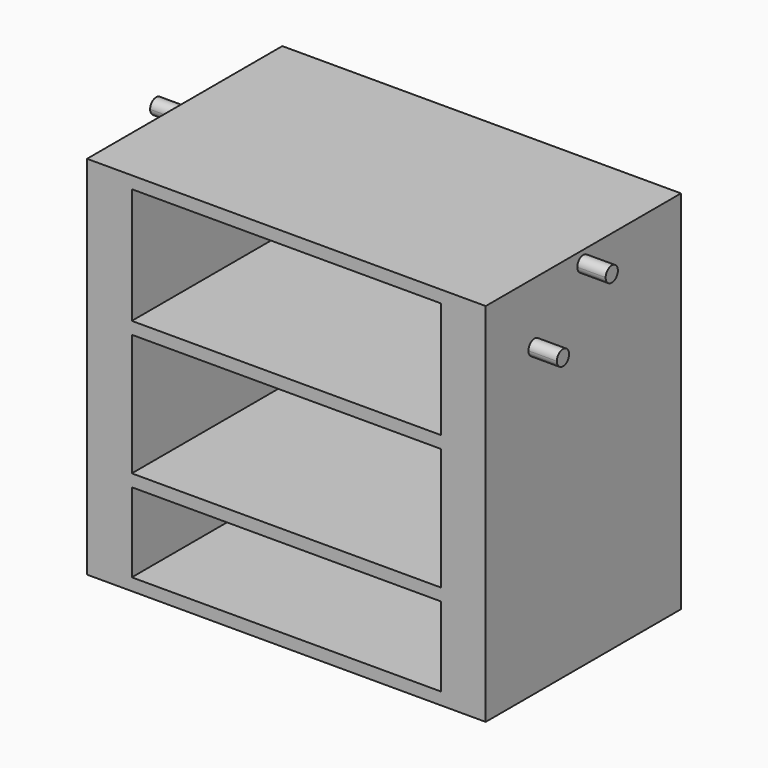
from build123d import *

# Parameters (mm, degrees)
F0_W      = 71.12
F0_H      = 50.8
F1_DEPTH  = 76.2
F3_T      = -2.54
F4_DEPTH  = 50.8
F5_DEPTH  = 50.8
F7_DEPTH  = 12.7
F8_DEPTH  = 12.7
F9_DEPTH  = 12.7
F12_DEPTH = 5.08
F13_DEPTH = 5.08


with BuildPart() as f1:
    # F0 (on Top) → F1 (new body)
    with BuildSketch(Plane.XY):
        with Locations((-1.6881457889, -10.255297339)):
            Rectangle(F0_W, F0_H)
    extrude(amount=F1_DEPTH)

    # F3
    f3_openings = [f1.faces().sort_by_distance(p)[0] for p in [
        (-1.688146, -35.655297, 38.1),
    ]]
    offset(amount=F3_T, openings=f3_openings)

    # F2 (on face) → F4 (join)
    with BuildSketch(Plane.XZ.offset(35.655297339)):
        Polygon((-37.2481457889, 49.53), (-37.2481457889, 46.99), (-1.6881457889, 46.99), (33.8718542111, 46.99), (33.8718542111, 49.53), align=None)
    extrude(amount=-F4_DEPTH)

    # F2 (on face) → F5 (join)
    with BuildSketch(Plane.XZ.offset(35.655297339)):
        Polygon((-37.2481457889, 19.05), (-1.6881457889, 19.05), (33.8718542111, 19.05), (33.8718542111, 21.59), (-1.6881457889, 21.59), (-37.2481457889, 21.59), align=None)
    extrude(amount=-F5_DEPTH)

    # F6 (on face) → F7 (join)
    with BuildSketch(Plane(origin=(-37.2481457889, 0, 0), x_dir=(0, -1, 0), z_dir=(-1, 0, 0))):
        with BuildLine():
            ThreePointArc((11.842797339, 73.66), (9.1327653238, 74.7825320151), (10.255297339, 72.0725))
            ThreePointArc((10.255297339, 72.0725), (11.3778293541, 72.5374679849), (11.842797339, 73.66))
        make_face()
    extrude(amount=F7_DEPTH)

    # F6 (on face) → F8 (join)
    with BuildSketch(Plane(origin=(-37.2481457889, 0, 0), x_dir=(0, -1, 0), z_dir=(-1, 0, 0))):
        with BuildLine():
            Line((22.955297339, 63.5), (22.955297339, 61.9125))
            ThreePointArc((22.955297339, 61.9125), (24.0778293541, 62.3774679849), (24.542797339, 63.5))
            ThreePointArc((24.542797339, 63.5), (22.955297339, 65.0875), (21.367797339, 63.5))
            Line((21.367797339, 63.5), (22.955297339, 63.5))
        make_face()
    extrude(amount=F8_DEPTH)

    # F6 (on face) → F9 (join)
    with BuildSketch(Plane(origin=(-37.2481457889, 0, 0), x_dir=(0, -1, 0), z_dir=(-1, 0, 0))):
        with BuildLine():
            ThreePointArc((21.367797339, 63.5), (21.8327653238, 62.3774679849), (22.955297339, 61.9125))
            Line((22.955297339, 61.9125), (22.955297339, 63.5))
            Line((22.955297339, 63.5), (21.367797339, 63.5))
        make_face()
    extrude(amount=F9_DEPTH)

    # F11: F1 across plane


with BuildPart() as f1_1:
    add(f1.part)
    add(f1.part.mirror(Plane.YZ.offset(-2.54)))

    # F12 (add): a face of the model
    f12_faces = [f1_1.faces().sort_by_distance(p)[0] for p in [
        (-38.9518542111, -10.2292152391, 37.9748059207),
    ]]
    extrude(f12_faces, amount=F12_DEPTH)

    # F13 (add): a face of the model
    f13_faces = [f1_1.faces().sort_by_distance(p)[0] for p in [
        (33.8718542111, -10.2292152391, 37.9748059207),
    ]]
    extrude(f13_faces, amount=F13_DEPTH)


solid = f1_1.part
